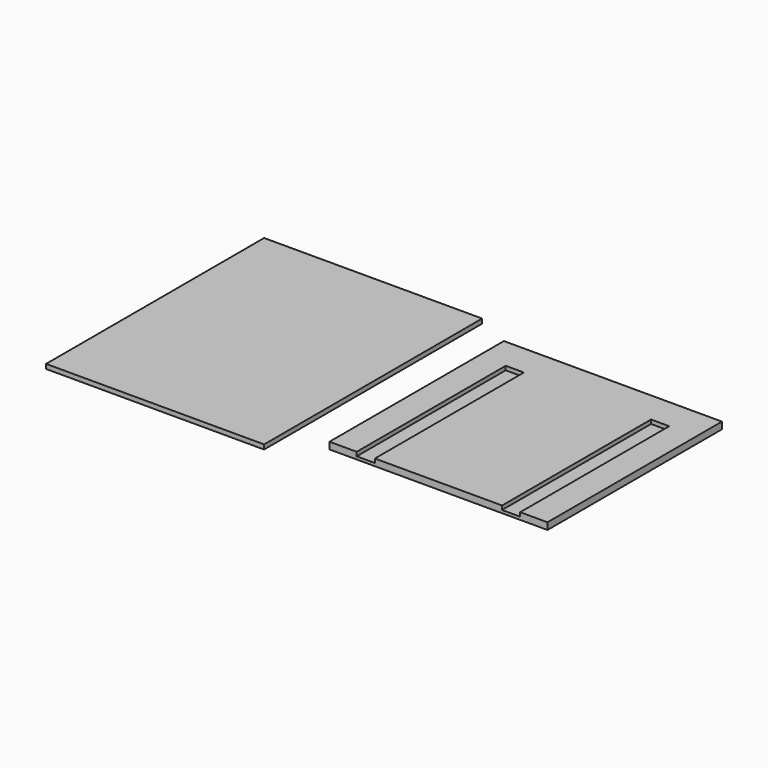
from build123d import *

# Parameters (mm, degrees)
F0_W     = 609.6
F0_H     = 762
F1_DEPTH = 12.7
F0_H_2   = 609.6
F2_DEPTH = 7.9375
F4_DEPTH = 11.1125
F5_R     = 2.778125
F5_R_2   = 9.525
F5_R_3   = 6.35
F6_DEPTH = 10.16


with BuildPart() as f1:
    # F0 (on Top) → F1 (new body)
    with BuildSketch(Plane.XY):
        with Locations((6.048253, 15.011625)):
            Rectangle(F0_W, F0_H)
    extrude(amount=F1_DEPTH)


with BuildPart() as f2:
    # F0 (on Top) → F2 (new body)
    with BuildSketch(Plane.XY):
        with Locations((726.779733, 28.252121)):
            Rectangle(F0_W, F0_H_2)
    extrude(amount=F2_DEPTH)

    # F3 (on face) → F4 (join)
    with BuildSketch(Plane.XY.offset(7.9375)):
        Polygon((421.979733, -276.547879), (498.179733, -276.547879), (498.179733, 244.152121), (548.979733, 244.152121), (548.979733, -276.547879), (904.579733, -276.547879), (904.579733, 244.152121), (955.379733, 244.152121), (955.379733, -276.547879), (1031.579733, -276.547879), (1031.579733, 333.052121), (421.979733, 333.052121), align=None)
    extrude(amount=F4_DEPTH)

    # F5 (on face) → F6 (cut)
    with BuildSketch(Plane(origin=(0, 0, 0), x_dir=(1, 0, 0), z_dir=(0, 0, -1))):
        with Locations((650.579733, -155.252121)):
            Circle(F5_R)
        with Locations((802.979733, -155.252121)):
            Circle(F5_R)
        with Locations((650.579733, 98.747879)):
            Circle(F5_R)
        with Locations((802.979733, 98.747879)):
            Circle(F5_R)
        with Locations((586.285983, -99.689621)):
            Circle(F5_R_2)
        with Locations((867.273483, -99.689621)):
            Circle(F5_R_2)
        with Locations((586.285983, 43.185379)):
            Circle(F5_R_2)
        with Locations((867.273483, 43.185379)):
            Circle(F5_R_2)
        with Locations((777.579733, -28.252121)):
            Circle(F5_R_3)
        with Locations((777.579733, 6.672879)):
            Circle(F5_R_3)
    extrude(amount=-F6_DEPTH, mode=Mode.SUBTRACT)


solid = Compound([f1.part, f2.part])
